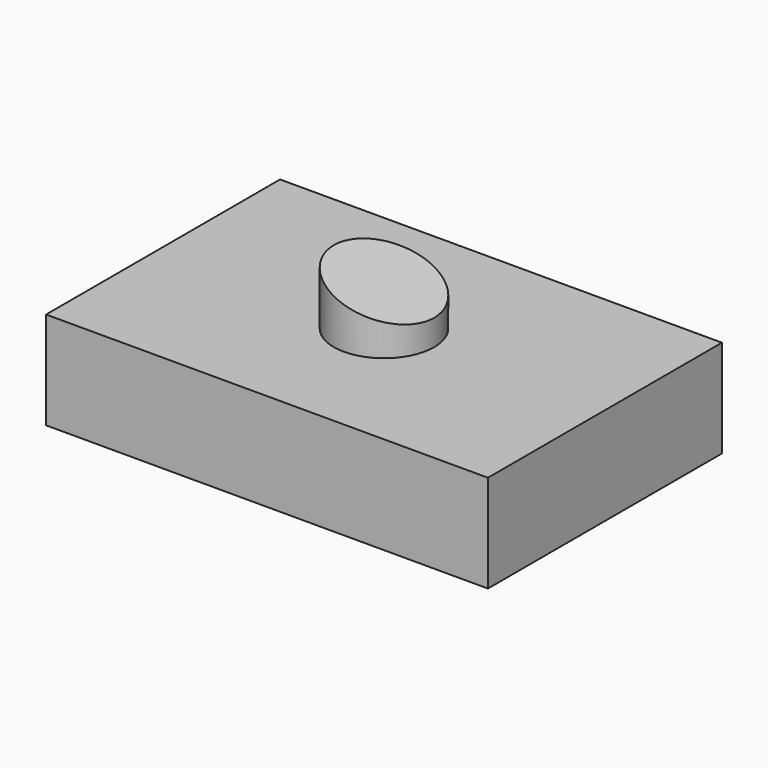
from build123d import *

# Parameters (mm, degrees)
F0_W     = 104.663714
F0_H     = 69.28701
F1_DEPTH = 23.114
F2_R     = 11.892204
F3_DEPTH = 18.034
F5_DEPTH = 25.4
F6_DEPTH = 25.4


with BuildPart() as f1:
    # F0 (on Top) → F1 (new body)
    with BuildSketch(Plane.XY):
        Rectangle(F0_W, F0_H)
    extrude(amount=F1_DEPTH)

    # F2 (on face) → F3 (join)
    with BuildSketch(Plane.XY.offset(23.114)):
        Circle(F2_R)
    extrude(amount=F3_DEPTH)

    # F4 (on Front) → F5 (cut)
    with BuildSketch(Plane.XZ):
        Polygon((20.987732, 43.441858), (-27.219897, 41.425567), (20.987732, 26.395051), align=None)
    extrude(amount=-F5_DEPTH, mode=Mode.SUBTRACT)

    # F4 (on Front) → F6 (cut)
    with BuildSketch(Plane.XZ):
        Polygon((20.987732, 43.441858), (-27.219897, 41.425567), (20.987732, 26.395051), align=None)
    extrude(amount=F6_DEPTH, mode=Mode.SUBTRACT)


solid = f1.part
